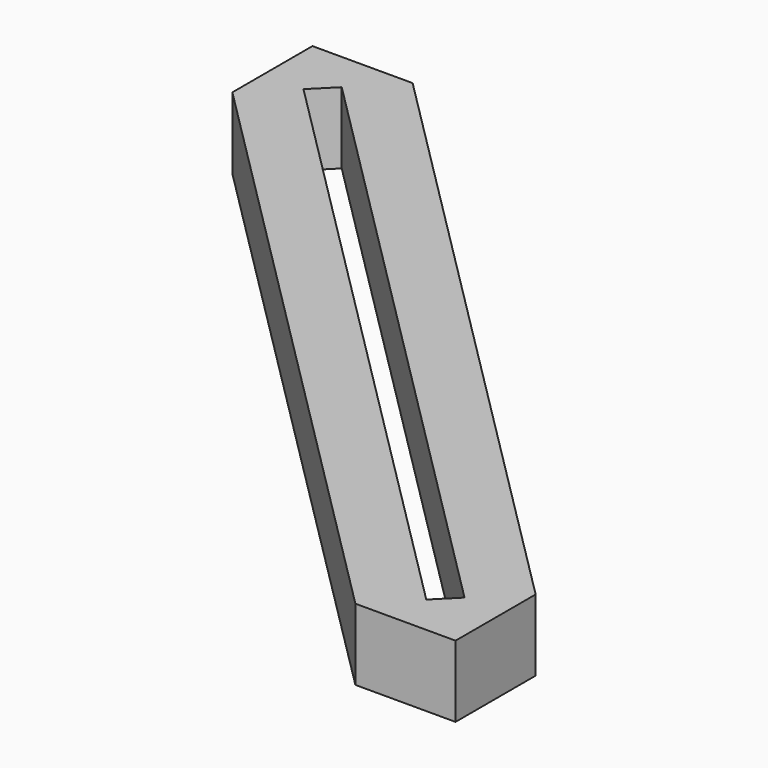
from build123d import *

# Parameters (mm, degrees)
F1_DEPTH = 5


with BuildPart() as f1:
    # F0 (on Top) → F1 (new body)
    with BuildSketch(Plane.XY):
        Polygon((-50, 50), (-50, 43), (-7, 0), (0, 0), (0, 7), (-43, 50), align=None)
        Polygon((-47.203949, 45.718841), (-45.718841, 47.203949), (-2.796051, 4.281159), (-4.281159, 2.796051), align=None, mode=Mode.SUBTRACT)
    extrude(amount=F1_DEPTH)


solid = f1.part
